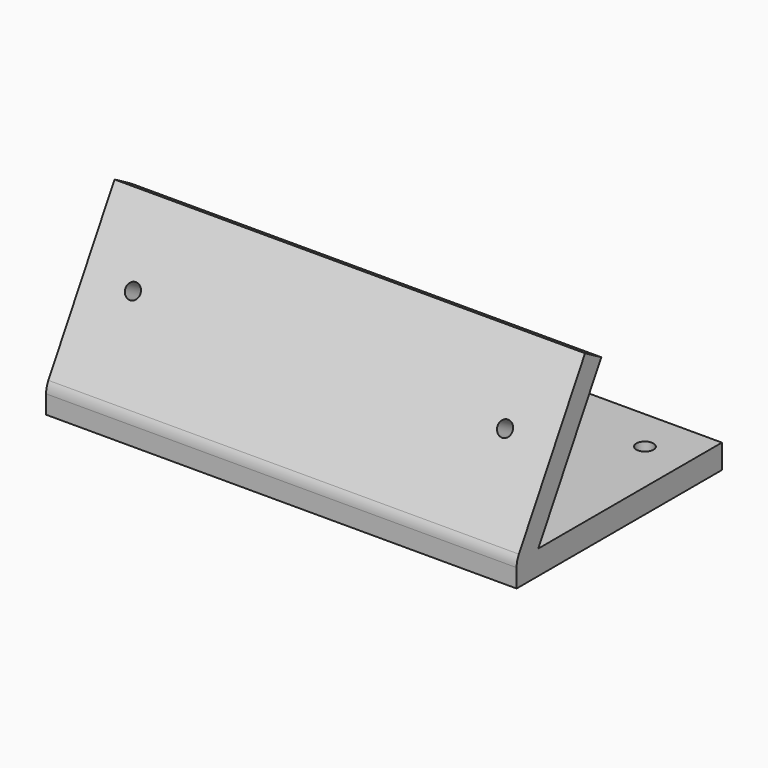
from build123d import *

# Parameters (mm, degrees)
F1_DEPTH = 110
F2_R     = 1.75
F3_DEPTH = 8
F4_R     = 2
F5_DEPTH = 10
F6_R     = 5


with BuildPart() as f1:
    # F0 (on Right) → F1 (new body)
    with BuildSketch(Plane.YZ):
        Polygon((60, 5.6479252494), (6.3304924375, 5.6479252494), (24.7478693281, 37.5477577661), (20, 40.2889414007), (0, 5.6479252494), (0, 0), (60, 0), align=None)
    extrude(amount=F1_DEPTH)

    # F2 (on face) → F3 (cut)
    with BuildSketch(Plane(origin=(0, -2.4456233723, 1.4119813123), x_dir=(1, 0, 0), z_dir=(0, -0.8660254038, 0.5))):
        with Locations((11.5, 26.8912467446)):
            Circle(F2_R)
        with Locations((98.5, 26.8912467446)):
            Circle(F2_R)
    extrude(amount=-F3_DEPTH, mode=Mode.SUBTRACT)

    # F4 (on face) → F5 (cut)
    with BuildSketch(Plane.XY.offset(5.6479252494)):
        with Locations((100, 50)):
            Circle(F4_R)
        with Locations((55, 50.1541644335)):
            Circle(F4_R)
        with Locations((10, 50)):
            Circle(F4_R)
    extrude(amount=-F5_DEPTH, mode=Mode.SUBTRACT)

    # F6
    f6_edges = [f1.edges().sort_by_distance(p)[0] for p in [
        (55, 0, 5.647925),
    ]]
    fillet(f6_edges, radius=F6_R)


solid = f1.part
